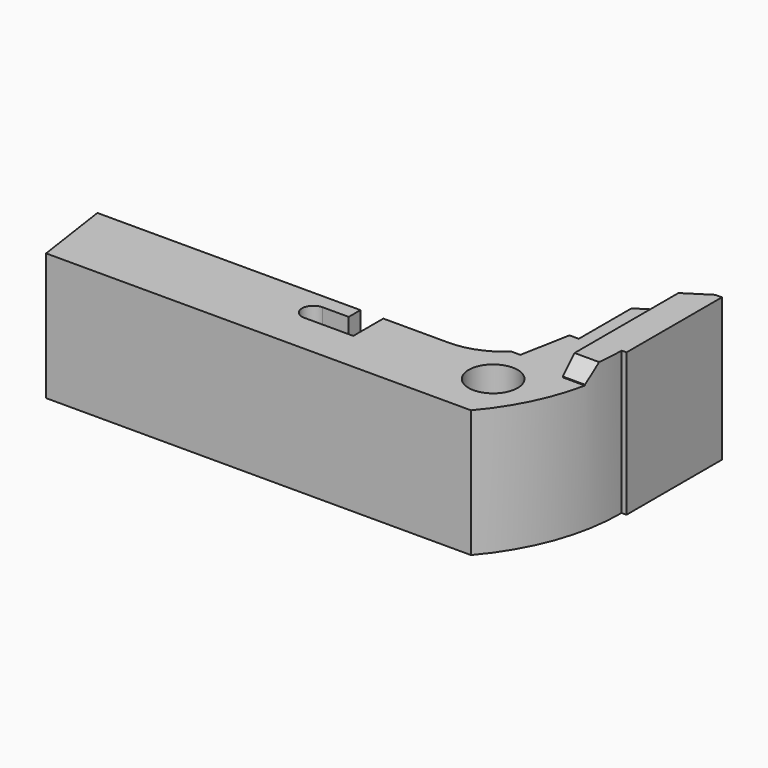
from build123d import *

# Parameters (mm, degrees)
F1_DEPTH  = 8.9
F2_W      = 28
F2_H      = 24.8338975774
F3_DEPTH  = 1.1
F4_W      = 81.2477835059
F4_H      = 5
F5_DEPTH  = 1.1
F6_R      = 1.5
F7_DEPTH  = 5.8
F8_W      = 8.6927097291
F8_H      = 13.0551015027
F9_DEPTH  = 0.15
F10_SIZE  = 0.9
F12_DEPTH = 3
F13_W     = 2.2015041194
F13_H     = 6.2
F14_DEPTH = 2.2
F15_SIZE  = 0.5
F17_DEPTH = 0.4
F19_DEPTH = 25
F21_DEPTH = 5
F22_SIZE  = 0.6


with BuildPart() as f1:
    # F0 (on Top) → F1 (new body)
    with BuildSketch(Plane.XY):
        with BuildLine():
            Line((-0.7, 4.8), (0, 0))
            Line((0, 0), (26, 0))
            ThreePointArc((26, 0), (28.1652277476, 3.687448042), (28.9, 7.9))
            Line((28.9, 7.9), (29.2, 7.9))
            Line((29.2, 7.9), (29.2, 15.2))
            Line((29.2, 15.2), (25.4, 15.2))
            Line((25.4, 15.2), (23.7, 5.9550013521))
            ThreePointArc((23.7, 5.9550013521), (22.3607712936, 5.0993739442), (20.8, 4.8))
            Line((20.8, 4.8), (-0.7, 4.8))
        make_face()
    extrude(amount=F1_DEPTH)

    # F2 (on face) → F3 (cut)
    with BuildSketch(Plane.XY.offset(8.9)):
        with Locations((13.3, 4.3441619959)):
            Rectangle(F2_W, F2_H)
    extrude(amount=-F3_DEPTH, mode=Mode.SUBTRACT)

    # F4 (on face) → F5 (cut)
    with BuildSketch(Plane.XY.offset(8.9)):
        with Locations((26.3764131814, 2.9)):
            Rectangle(F4_W, F4_H)
    extrude(amount=-F5_DEPTH, mode=Mode.SUBTRACT)

    # F6 (on face) → F7 (cut)
    with BuildSketch(Plane.XY.offset(7.8)):
        with Locations((24.8, 3.2)):
            Circle(F6_R)
    extrude(amount=-F7_DEPTH, mode=Mode.SUBTRACT)

    # F8 (on face) → F9 (cut)
    with BuildSketch(Plane.XY.offset(8.9)):
        with Locations((28.8734519854, 10.3571598884)):
            Rectangle(F8_W, F8_H)
    extrude(amount=-F9_DEPTH, mode=Mode.SUBTRACT)

    # F10
    f10_edges = [f1.edges().sort_by_distance(p)[0] for p in [
        (27.976572, 5.4, 8.75),
    ]]
    chamfer(f10_edges, length=F10_SIZE)

    # F11 (on face) → F12 (cut)
    with BuildSketch(Plane.XY.offset(7.8)):
        with BuildLine():
            ThreePointArc((13.8, 2.5), (14.2949747468, 2.7050252532), (14.5, 3.2))
            ThreePointArc((14.5, 3.2), (14.2949747468, 3.6949747468), (13.8, 3.9))
            ThreePointArc((13.8, 3.9), (13.1, 3.2), (13.8, 2.5))
        make_face()
        with BuildLine():
            ThreePointArc((13.8, 3.9), (14.2949747468, 3.6949747468), (14.5, 3.2))
            ThreePointArc((14.5, 3.2), (14.2949747468, 2.7050252532), (13.8, 2.5))
            Line((13.8, 2.5), (16.8, 2.5))
            Line((16.8, 2.5), (16.8, 4.8))
            Line((16.8, 4.8), (15.4, 4.8))
            Line((15.4, 4.8), (15.4, 3.9))
            Line((15.4, 3.9), (13.8, 3.9))
        make_face()
    extrude(amount=-F12_DEPTH, mode=Mode.SUBTRACT)

    # F13 (on face) → F14 (cut)
    with BuildSketch(Plane.XY.offset(7.8)):
        with Locations((24.2992479403, 12.1)):
            Rectangle(F13_W, F13_H)
    extrude(amount=-F14_DEPTH, mode=Mode.SUBTRACT)

    # F15
    f15_edges = [f1.edges().sort_by_distance(p)[0] for p in [
        (24.829962, 12.1, 5.6),
    ]]
    chamfer(f15_edges, length=F15_SIZE)

    # F16 (on face) → F17 (cut)
    with BuildSketch(Plane.XY.offset(7.8)):
        Polygon((24.8299620583, 9), (24.2599241167, 9), (23.7, 5.9550013521), (24.2599241167, 5.9550013521), align=None)
    extrude(amount=-F17_DEPTH, mode=Mode.SUBTRACT)

    # F18 (on face) → F19 (cut)
    with BuildSketch(Plane(origin=(0, 0, 0), x_dir=(1, 0, 0), z_dir=(0, 0, -1))):
        Polygon((28.7879798561, -15.2), (24.9478723404, -12.7412237639), (25.4, -15.2), align=None)
    extrude(amount=-F19_DEPTH, mode=Mode.SUBTRACT)

    # F20 (on face) → F21 (join)
    with BuildSketch(Plane(origin=(0, 0, 0), x_dir=(1, 0, 0), z_dir=(0, 0, -1))):
        Polygon((23.2760720335, -11.3907581303), (24.9478723404, -12.7412237639), (23.7, -5.9550013521), align=None)
    extrude(amount=-F21_DEPTH)

    # F22
    f22_edges = [f1.edges().sort_by_distance(p)[0] for p in [
        (23.488036, 8.67288, 5),
        (24.111972, 12.065991, 5),
    ]]
    chamfer(f22_edges, length=F22_SIZE)


solid = f1.part
